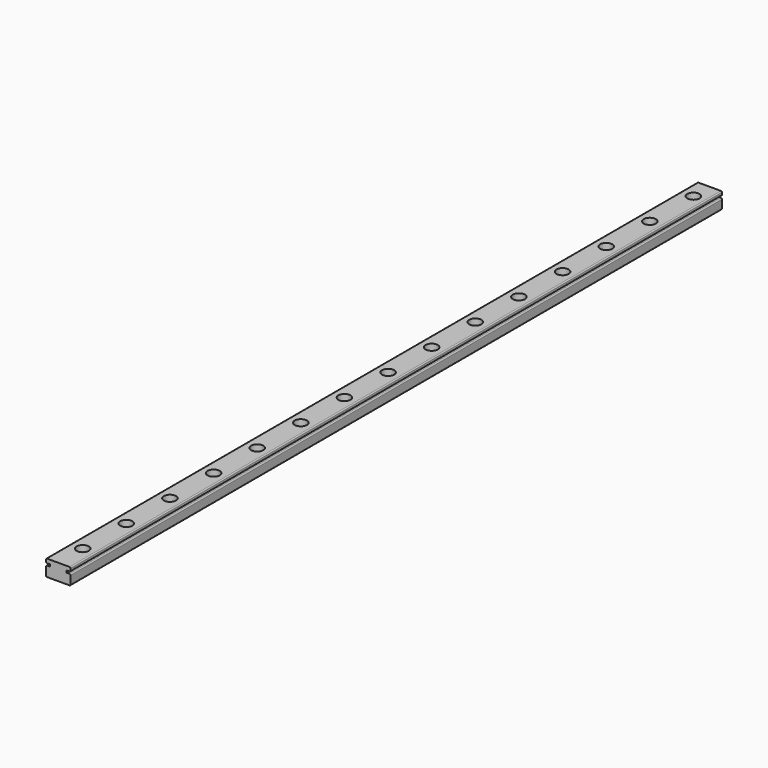
from build123d import *

# Parameters (mm, degrees)
PAD_DEPTH           = 400
SKETCH001_R         = 3
POCKET_DEPTH        = 4.5
SKETCH002_R         = 1.75
POCKET001_DEPTH     = 8.001
LINEARPATTERN_COUNT = 15
LINEARPATTERN_PITCH = 26.785714


with BuildPart() as part:
    # Sketch → Pad (new body)
    with BuildSketch(Plane.XZ):
        with BuildLine():
            Line((-5.5, 0), (5.5, 0))
            ThreePointArc((5.5, 0), (5.853553, 0.146447), (6, 0.5))
            Line((6, 0.5), (6, 4.5))
            ThreePointArc((6, 4.5), (5.853553, 4.853553), (5.5, 5))
            Line((5.5, 5), (4, 5))
            Line((4, 5), (4, 6))
            Line((4, 6), (5.5, 6))
            ThreePointArc((5.5, 6), (5.853553, 6.146447), (6, 6.5))
            Line((6, 6.5), (6, 7.5))
            ThreePointArc((6, 7.5), (5.853553, 7.853553), (5.5, 8))
            Line((-5.5, 8), (5.5, 8))
            ThreePointArc((-5.5, 8), (-5.853553, 7.853553), (-6, 7.5))
            Line((-6, 6.5), (-6, 7.5))
            ThreePointArc((-6, 6.5), (-5.853553, 6.146447), (-5.5, 6))
            Line((-4, 6), (-5.5, 6))
            Line((-4, 5), (-4, 6))
            Line((-5.5, 5), (-4, 5))
            ThreePointArc((-5.5, 5), (-5.853553, 4.853553), (-6, 4.5))
            Line((-6, 0.5), (-6, 4.5))
            ThreePointArc((-6, 0.5), (-5.853553, 0.146447), (-5.5, 0))
        make_face()
    extrude(amount=PAD_DEPTH)

    # Sketch001 (on Face12 of Pad) → Pocket (cut)
    with BuildSketch(Plane(origin=(0, 0, 8), x_dir=(-1, 0, 0), z_dir=(0, 0, 1))):
        with Locations((0, 10)):
            Circle(SKETCH001_R)
    pocket = extrude(amount=-POCKET_DEPTH, mode=Mode.SUBTRACT)

    # Sketch002 (on Face16 of Pocket) → Pocket001 (cut, through all)
    with BuildSketch(Plane(origin=(0, 0, 8), x_dir=(-1, 0, 0), z_dir=(0, 0, 1))):
        with Locations((0, 10)):
            Circle(SKETCH002_R)
    pocket001 = extrude(amount=-POCKET001_DEPTH, mode=Mode.SUBTRACT)

    # LinearPattern: Pocket, Pocket001 ×15
    with Locations(*[(0, -i * LINEARPATTERN_PITCH, 0) for i in range(1, LINEARPATTERN_COUNT)]):
        add(pocket, mode=Mode.SUBTRACT)
        add(pocket001, mode=Mode.SUBTRACT)


solid = part.part
